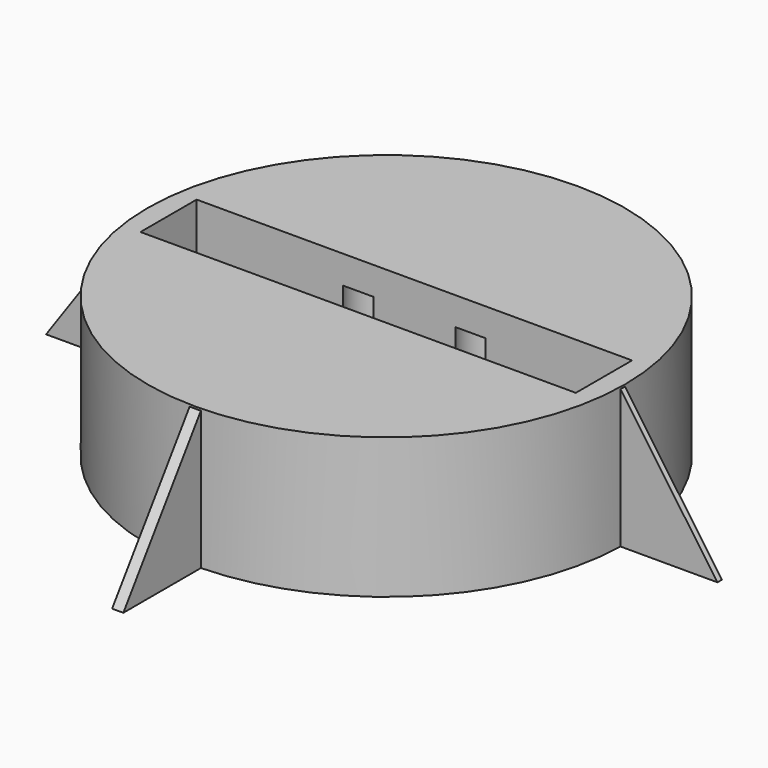
from build123d import *

# Parameters (mm, degrees)
F0_R      = 85
F1_DEPTH  = 50
F2_R      = 9.25
F3_DEPTH  = 40
F4_W      = 155
F4_H      = 25
F5_DEPTH  = 40
F7_DEPTH  = 2
F10_DEPTH = 2


with BuildPart() as f1:
    # F0 (on Top) → F1 (new body)
    with BuildSketch(Plane.XY):
        Circle(F0_R)
    extrude(amount=F1_DEPTH)

    # F2 (on face) → F3 (cut)
    with BuildSketch(Plane(origin=(0, 0, 0), x_dir=(1, 0, 0), z_dir=(0, 0, -1))):
        with Locations((20, 20)):
            Circle(F2_R)
        with Locations((-20, 20)):
            Circle(F2_R)
        with Locations((-20, -20)):
            Circle(F2_R)
        with Locations((20, -20)):
            Circle(F2_R)
    extrude(amount=-F3_DEPTH, mode=Mode.SUBTRACT)

    # F4 (on face) → F5 (cut)
    with BuildSketch(Plane.XY.offset(50)):
        Rectangle(F4_W, F4_H)
    extrude(amount=-F5_DEPTH, mode=Mode.SUBTRACT)

    # F6 (on Right) → F7 (join)
    with BuildSketch(Plane.YZ):
        Polygon((-119.5, 0), (-84.5, 0), (-84.5, 50), align=None)
    extrude(amount=F7_DEPTH)

    # F8: F1 across plane


with BuildPart() as f1_1:
    add(f1.part)
    add(f1.part.mirror(Plane.XZ))

    # F9 (on Front) → F10 (join)
    with BuildSketch(Plane.XZ):
        Polygon((-84.5, 0), (-84.5, 50), (-119.5, 0), align=None)
    extrude(amount=F10_DEPTH)

    # F11: F1 across plane


with BuildPart() as f1_2:
    add(f1_1.part)
    add(f1_1.part.mirror(Plane.YZ))


solid = f1_2.part
